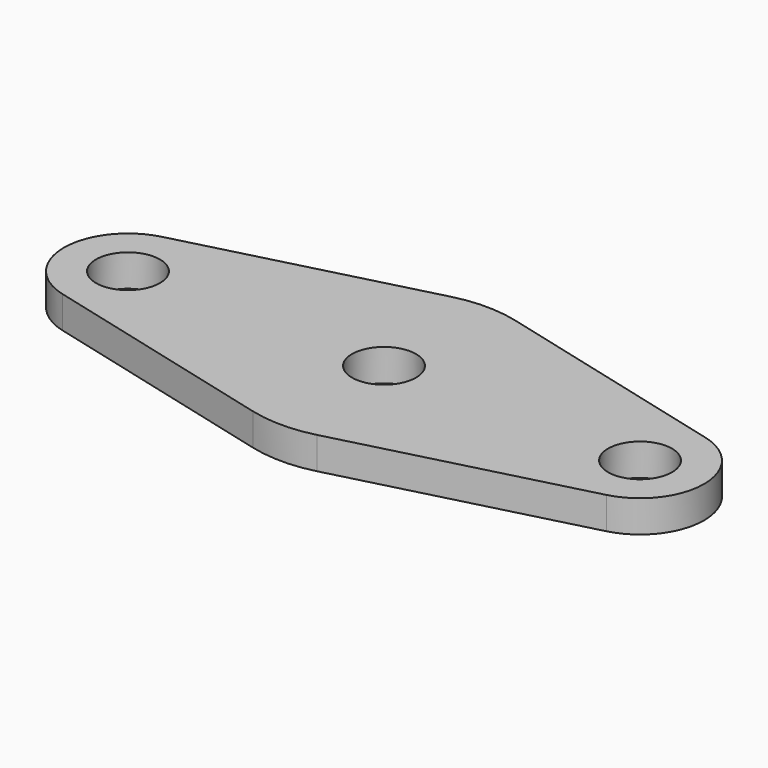
from build123d import *

# Parameters (mm, degrees)
SKETCH_R      = 10
EXTRUDE_DEPTH = 10


with BuildPart() as part:
    # Sketch → Extrude (new body)
    with BuildSketch(Plane.XY):
        with BuildLine():
            ThreePointArc((-10, -38.729833), (0, -40), (10, -38.729833))
            Line((85, -19.364917), (10, -38.729833))
            ThreePointArc((85, -19.364917), (100, 0), (85, 19.364917))
            Line((10, 38.729833), (85, 19.364917))
            ThreePointArc((10, 38.729833), (0, 40), (-10, 38.729833))
            Line((-85, 19.364917), (-10, 38.729833))
            ThreePointArc((-85, 19.364917), (-100, 0), (-85, -19.364917))
            Line((-10, -38.729833), (-85, -19.364917))
        make_face()
        Circle(SKETCH_R, mode=Mode.SUBTRACT)
        with Locations((-80, 0)):
            Circle(SKETCH_R, mode=Mode.SUBTRACT)
        with Locations((80, 0)):
            Circle(SKETCH_R, mode=Mode.SUBTRACT)
    extrude(amount=EXTRUDE_DEPTH)


solid = part.part
